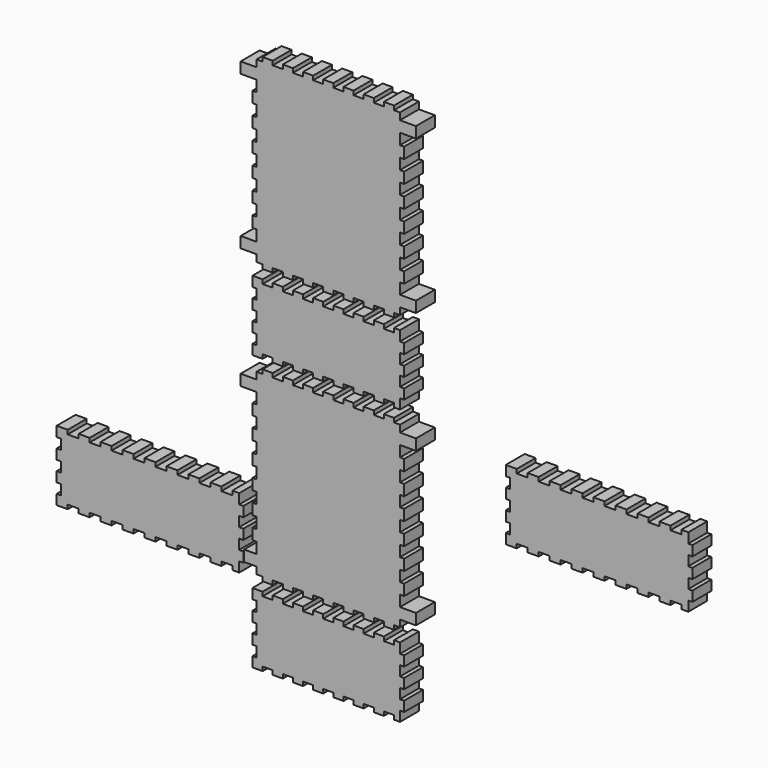
from build123d import *

# Parameters (mm, degrees)
F1_DEPTH = 25.4


with BuildPart() as f1:
    # F0 (on Front) → F1 (new body)
    with BuildSketch(Plane.XZ):
        Polygon((-81.365404, -279.444099), (-81.365404, -290.172863), (-70.515395, -290.172863), (-70.515395, -285.792528), (-59.667139, -285.792528), (-59.667139, -290.172863), (-48.818882, -290.172863), (-48.818882, -285.792528), (-37.971126, -285.792528), (-37.971126, -290.172863), (-27.12337, -290.172863), (-27.12337, -285.792528), (-16.273111, -285.792528), (-16.273111, -290.172863), (-5.422851, -290.172863), (-5.422851, -285.792528), (5.424904, -285.792528), (5.424904, -290.172863), (16.27266, -290.172863), (16.27266, -285.792528), (27.120416, -285.792528), (27.120416, -290.172863), (37.970675, -290.172863), (37.970675, -285.792528), (48.818431, -285.792528), (48.818431, -290.172863), (59.666187, -290.172863), (59.666187, -285.792528), (70.513943, -285.792528), (70.513943, -290.172863), (76.983041, -290.172863), (76.983041, -279.444099), (81.364202, -279.444099), (81.364202, -268.713884), (76.983041, -268.713884), (76.983041, -257.985045), (81.364202, -257.985045), (81.364202, -247.256457), (76.983041, -247.256457), (76.983041, -236.526116), (81.364202, -236.526116), (81.364202, -225.797528), (76.983041, -225.797528), (76.983041, -215.067187), (70.513943, -215.067187), (70.513943, -219.4491), (59.666187, -219.4491), (59.666187, -215.067187), (48.818431, -215.067187), (48.818431, -219.4491), (37.970675, -219.4491), (37.970675, -215.067187), (27.120416, -215.067187), (27.120416, -219.4491), (16.27266, -219.4491), (16.27266, -215.067187), (5.424904, -215.067187), (5.424904, -219.4491), (-5.422851, -219.4491), (-5.422851, -215.067187), (-16.273111, -215.067187), (-16.273111, -219.4491), (-27.12337, -219.4491), (-27.12337, -215.067187), (-37.971126, -215.067187), (-37.971126, -219.4491), (-48.818882, -219.4491), (-48.818882, -215.067187), (-59.667139, -215.067187), (-59.667139, -219.4491), (-70.515395, -219.4491), (-70.515395, -215.067187), (-81.365404, -215.067187), (-81.365404, -225.797528), (-76.983492, -225.797528), (-76.983492, -236.526116), (-81.365404, -236.526116), (-81.365404, -247.256457), (-76.983492, -247.256457), (-76.983492, -257.985045), (-81.365404, -257.985045), (-81.365404, -268.713884), (-76.983492, -268.713884), (-76.983492, -279.444099), align=None)
        Polygon((-291.502232, -194.481486), (-291.502232, -205.211827), (-279.720814, -205.211827), (-279.720814, -200.830165), (-267.940797, -200.830165), (-267.940797, -205.211827), (-256.159478, -205.211827), (-256.159478, -200.830165), (-244.377909, -200.830165), (-244.377909, -205.211827), (-232.59634, -205.211827), (-232.59634, -200.830165), (-220.81477, -200.830165), (-220.81477, -205.211827), (-209.033702, -205.211827), (-209.033702, -200.830165), (-197.252133, -200.830165), (-197.252133, -205.211827), (-185.470814, -205.211827), (-185.470814, -200.830165), (-173.689245, -200.830165), (-173.689245, -205.211827), (-161.909178, -205.211827), (-161.909178, -200.830165), (-150.127609, -200.830165), (-150.127609, -205.211827), (-138.34654, -205.211827), (-138.34654, -200.830165), (-126.564971, -200.830165), (-126.564971, -205.211827), (-114.783402, -205.211827), (-114.783402, -200.830165), (-103.001833, -200.830165), (-103.001833, -205.211827), (-95.602427, -205.211827), (-95.602427, -194.481486), (-91.220514, -194.481486), (-91.220514, -183.752898), (-95.602427, -183.752898), (-95.602427, -173.022557), (-91.220514, -173.022557), (-91.220514, -162.293969), (-95.602427, -162.293969), (-95.602427, -151.563879), (-91.220514, -151.563879), (-91.220514, -140.83504), (-95.602427, -140.83504), (-95.602427, -130.106201), (-103.001833, -130.106201), (-103.001833, -134.486361), (-114.783402, -134.486361), (-114.783402, -130.106201), (-126.564971, -130.106201), (-126.564971, -134.486361), (-138.34654, -134.486361), (-138.34654, -130.106201), (-150.127609, -130.106201), (-150.127609, -134.486361), (-161.909178, -134.486361), (-161.909178, -130.106201), (-173.689245, -130.106201), (-173.689245, -134.486361), (-185.470814, -134.486361), (-185.470814, -130.106201), (-197.252133, -130.106201), (-197.252133, -134.486361), (-209.033702, -134.486361), (-209.033702, -130.106201), (-220.81477, -130.106201), (-220.81477, -134.486361), (-232.59634, -134.486361), (-232.59634, -130.106201), (-244.377909, -130.106201), (-244.377909, -134.486361), (-256.159478, -134.486361), (-256.159478, -130.106201), (-267.940797, -130.106201), (-267.940797, -134.486361), (-279.720814, -134.486361), (-279.720814, -130.106201), (-291.502232, -130.106201), (-291.502232, -140.83504), (-287.121897, -140.83504), (-287.121897, -151.563879), (-291.502232, -151.563879), (-291.502232, -162.293969), (-287.121897, -162.293969), (-287.121897, -173.022557), (-291.502232, -173.022557), (-291.502232, -183.752898), (-287.121897, -183.752898), (-287.121897, -194.481486), align=None)
        Polygon((-76.983492, -193.430508), (-76.983492, -200.830165), (-70.515395, -200.830165), (-70.515395, -205.211827), (-59.667139, -205.211827), (-59.667139, -200.830165), (-48.818882, -200.830165), (-48.818882, -205.211827), (-37.971126, -205.211827), (-37.971126, -200.830165), (-27.12337, -200.830165), (-27.12337, -205.211827), (-16.273111, -205.211827), (-16.273111, -200.830165), (-5.422851, -200.830165), (-5.422851, -205.211827), (5.424904, -205.211827), (5.424904, -200.830165), (16.27266, -200.830165), (16.27266, -205.211827), (27.120416, -205.211827), (27.120416, -200.830165), (37.970675, -200.830165), (37.970675, -205.211827), (48.818431, -205.211827), (48.818431, -200.830165), (59.666187, -200.830165), (59.666187, -205.211827), (70.513943, -205.211827), (70.513943, -200.830165), (76.983041, -200.830165), (76.983041, -193.430508), (81.364947, -193.430508), (85.746109, -193.430508), (94.064202, -193.430508), (94.064202, -181.648939), (81.364202, -181.648939), (76.983041, -181.648939), (76.983041, -169.86737), (81.364202, -169.86737), (81.364202, -158.086051), (76.983041, -158.086051), (76.983041, -146.304732), (81.364202, -146.304732), (81.364202, -134.523414), (76.983041, -134.523414), (76.983041, -122.741844), (81.364202, -122.741844), (81.364202, -110.961777), (76.983041, -110.961777), (76.983041, -99.180208), (81.364202, -99.180208), (81.364202, -87.398639), (76.983041, -87.398639), (76.983041, -75.617571), (81.364202, -75.617571), (81.364202, -63.836001), (76.983041, -63.836001), (76.983041, -52.054432), (81.364202, -52.054432), (81.364202, -40.271862), (76.983041, -40.271862), (76.983041, -28.492796), (81.364202, -28.492796), (94.064202, -28.492796), (94.064202, -16.711227), (81.004872, -16.711227), (76.983041, -16.711227), (76.983041, -9.310819), (70.513943, -9.310819), (70.513943, -4.929658), (59.666187, -4.929658), (59.666187, -9.310819), (48.818431, -9.310819), (48.818431, -4.929658), (37.970675, -4.929658), (37.970675, -9.310819), (27.120416, -9.310819), (27.120416, -4.929658), (16.27266, -4.929658), (16.27266, -9.310819), (5.424904, -9.310819), (5.424904, -4.929658), (-5.422851, -4.929658), (-5.422851, -9.310819), (-16.273111, -9.310819), (-16.273111, -4.929658), (-27.12337, -4.929658), (-27.12337, -9.310819), (-37.971126, -9.310819), (-37.971126, -4.929658), (-48.818882, -4.929658), (-48.818882, -9.310819), (-59.667139, -9.310819), (-59.667139, -4.929658), (-70.515395, -4.929658), (-70.515395, -9.310819), (-76.983492, -9.310819), (-76.983492, -16.711227), (-81.365404, -16.711227), (-94.065404, -16.711227), (-94.065404, -28.492796), (-81.365404, -28.492796), (-76.983492, -28.492796), (-76.983492, -40.271862), (-81.365404, -40.271862), (-81.365404, -52.054432), (-76.983492, -52.054432), (-76.983492, -63.836001), (-81.365404, -63.836001), (-81.365404, -75.617571), (-76.983492, -75.617571), (-76.983492, -87.398639), (-81.365404, -87.398639), (-81.365404, -99.180208), (-76.983492, -99.180208), (-76.983492, -110.961777), (-81.365404, -110.961777), (-81.365404, -122.741844), (-76.983492, -122.741844), (-76.983492, -134.523414), (-81.365404, -134.523414), (-81.365404, -146.304732), (-76.983492, -146.304732), (-76.983492, -158.086051), (-81.365404, -158.086051), (-81.365404, -169.86737), (-76.983492, -169.86737), (-76.983492, -181.648939), (-81.365404, -181.648939), (-90.341263, -181.648939), (-90.341263, -193.430508), (-77.641263, -193.430508), align=None)
        Polygon((-81.365404, 15.656794), (-81.365404, 4.926704), (-70.515395, 4.926704), (-70.515395, 9.307865), (-59.667139, 9.307865), (-59.667139, 4.926704), (-48.818882, 4.926704), (-48.818882, 9.307865), (-37.971126, 9.307865), (-37.971126, 4.926704), (-27.12337, 4.926704), (-27.12337, 9.307865), (-16.273111, 9.307865), (-16.273111, 4.926704), (-5.422851, 4.926704), (-5.422851, 9.307865), (5.424904, 9.307865), (5.424904, 4.926704), (16.27266, 4.926704), (16.27266, 9.307865), (27.120416, 9.307865), (27.120416, 4.926704), (37.970675, 4.926704), (37.970675, 9.307865), (48.818431, 9.307865), (48.818431, 4.926704), (59.666187, 4.926704), (59.666187, 9.307865), (70.513943, 9.307865), (70.513943, 4.926704), (76.983041, 4.926704), (76.983041, 15.656794), (81.364202, 15.656794), (81.364202, 26.386884), (76.983041, 26.386884), (76.983041, 37.114471), (81.364202, 37.114471), (81.364202, 47.844562), (76.983041, 47.844562), (76.983041, 58.572149), (81.364202, 58.572149), (81.364202, 69.302239), (76.983041, 69.302239), (76.983041, 80.032329), (70.513943, 80.032329), (70.513943, 75.651168), (59.666187, 75.651168), (59.666187, 80.032329), (48.818431, 80.032329), (48.818431, 75.651168), (37.970675, 75.651168), (37.970675, 80.032329), (27.120416, 80.032329), (27.120416, 75.651168), (16.27266, 75.651168), (16.27266, 80.032329), (5.424904, 80.032329), (5.424904, 75.651168), (-5.422851, 75.651168), (-5.422851, 80.032329), (-16.273111, 80.032329), (-16.273111, 75.651168), (-27.12337, 75.651168), (-27.12337, 80.032329), (-37.971126, 80.032329), (-37.971126, 75.651168), (-48.818882, 75.651168), (-48.818882, 80.032329), (-59.667139, 80.032329), (-59.667139, 75.651168), (-70.515395, 75.651168), (-70.515395, 80.032329), (-81.365404, 80.032329), (-81.365404, 69.302239), (-76.983492, 69.302239), (-76.983492, 58.572149), (-81.365404, 58.572149), (-81.365404, 47.844562), (-76.983492, 47.844562), (-76.983492, 37.114471), (-81.365404, 37.114471), (-81.365404, 26.386884), (-76.983492, 26.386884), (-76.983492, 15.656794), align=None)
        Polygon((-76.983492, 101.67026), (-76.983492, 94.267349), (-70.515395, 94.267349), (-70.515395, 89.891195), (-59.667139, 89.891195), (-59.667139, 94.267349), (-48.818882, 94.267349), (-48.818882, 89.891195), (-37.971126, 89.891195), (-37.971126, 94.267349), (-27.12337, 94.267349), (-27.12337, 89.891195), (-16.273111, 89.891195), (-16.273111, 94.267349), (-5.422851, 94.267349), (-5.422851, 89.891195), (5.424904, 89.891195), (5.424904, 94.267349), (16.27266, 94.267349), (16.27266, 89.891195), (27.120416, 89.891195), (27.120416, 94.267349), (37.970675, 94.267349), (37.970675, 89.891195), (48.818431, 89.891195), (48.818431, 94.267349), (59.666187, 94.267349), (59.666187, 89.891195), (70.513943, 89.891195), (70.513943, 94.267349), (76.983041, 94.267349), (76.983041, 101.67026), (81.364202, 101.67026), (94.064202, 101.67026), (94.064202, 113.451829), (81.364202, 113.451829), (76.983041, 113.451829), (76.983041, 125.230895), (81.364202, 125.230895), (81.364202, 137.012464), (76.983041, 137.012464), (76.983041, 148.796537), (81.364202, 148.796537), (81.364202, 160.575602), (76.983041, 160.575602), (76.983041, 172.357171), (81.364202, 172.357171), (81.364202, 184.141244), (76.983041, 184.141244), (76.983041, 195.92031), (81.364202, 195.92031), (81.364202, 207.701879), (76.983041, 207.701879), (76.983041, 219.480945), (81.364202, 219.480945), (81.364202, 231.262514), (76.983041, 231.262514), (76.983041, 243.046586), (81.364202, 243.046586), (81.364202, 254.828155), (76.983041, 254.828155), (76.983041, 266.607221), (81.364202, 266.607221), (94.064202, 266.607221), (94.064202, 278.38879), (81.364202, 278.38879), (76.983041, 278.38879), (76.983041, 285.791701), (70.513943, 285.791701), (70.513943, 290.172863), (59.666187, 290.172863), (59.666187, 285.791701), (48.818431, 285.791701), (48.818431, 290.172863), (37.970675, 290.172863), (37.970675, 285.791701), (27.120416, 285.791701), (27.120416, 290.172863), (16.27266, 290.172863), (16.27266, 285.791701), (5.424904, 285.791701), (5.424904, 290.172863), (-5.422851, 290.172863), (-5.422851, 285.791701), (-16.273111, 285.791701), (-16.273111, 290.172863), (-27.12337, 290.172863), (-27.12337, 285.791701), (-37.971126, 285.791701), (-37.971126, 290.172863), (-48.818882, 290.172863), (-48.818882, 285.791701), (-59.667139, 285.791701), (-59.667139, 290.172863), (-70.515395, 290.172863), (-70.515395, 285.791701), (-76.983492, 285.791701), (-76.983492, 278.38879), (-81.364202, 278.38879), (-81.365404, 278.38879), (-94.064202, 278.38879), (-94.064202, 266.607221), (-81.365404, 266.607221), (-81.364202, 266.607221), (-76.983492, 266.607221), (-76.983492, 254.828155), (-81.365404, 254.828155), (-81.365404, 243.046586), (-76.983492, 243.046586), (-76.983492, 231.262514), (-81.365404, 231.262514), (-81.365404, 219.480945), (-76.983492, 219.480945), (-76.983492, 207.701879), (-81.365404, 207.701879), (-81.365404, 195.92031), (-76.983492, 195.92031), (-76.983492, 184.141244), (-81.365404, 184.141244), (-81.365404, 172.357171), (-76.983492, 172.357171), (-76.983492, 160.575602), (-81.365404, 160.575602), (-81.365404, 148.796537), (-76.983492, 148.796537), (-76.983492, 137.012464), (-81.365404, 137.012464), (-81.365404, 125.230895), (-76.983492, 125.230895), (-76.983492, 113.451829), (-81.364202, 113.451829), (-81.365404, 113.451829), (-94.064202, 113.451829), (-94.064202, 101.67026), (-81.365404, 101.67026), (-81.364202, 101.67026), align=None)
        Polygon((190.510345, -74.728762), (190.510345, -85.459103), (202.291914, -85.459103), (202.291914, -81.077441), (214.07098, -81.077441), (214.07098, -85.459103), (225.855052, -85.459103), (225.855052, -81.077441), (237.636622, -81.077441), (237.636622, -85.459103), (249.415687, -85.459103), (249.415687, -81.077441), (261.197256, -81.077441), (261.197256, -85.459103), (272.976322, -85.459103), (272.976322, -81.077441), (284.760395, -81.077441), (284.760395, -85.459103), (296.541964, -85.459103), (296.541964, -81.077441), (308.321029, -81.077441), (308.321029, -85.459103), (320.105102, -85.459103), (320.105102, -81.077441), (331.886671, -81.077441), (331.886671, -85.459103), (343.66824, -85.459103), (343.66824, -81.077441), (355.447306, -81.077441), (355.447306, -85.459103), (367.228875, -85.459103), (367.228875, -81.077441), (379.012948, -81.077441), (379.012948, -85.459103), (386.410852, -85.459103), (386.410852, -74.728762), (390.792013, -74.728762), (390.792013, -64.000174), (386.410852, -64.000174), (386.410852, -53.269833), (390.792013, -53.269833), (390.792013, -42.541245), (386.410852, -42.541245), (386.410852, -31.811155), (390.792013, -31.811155), (390.792013, -21.082316), (386.410852, -21.082316), (386.410852, -10.353478), (379.012948, -10.353478), (379.012948, -14.733638), (367.228875, -14.733638), (367.228875, -10.353478), (355.447306, -10.353478), (355.447306, -14.733638), (343.66824, -14.733638), (343.66824, -10.353478), (331.886671, -10.353478), (331.886671, -14.733638), (320.105102, -14.733638), (320.105102, -10.353478), (308.321029, -10.353478), (308.321029, -14.733638), (296.541964, -14.733638), (296.541964, -10.353478), (284.760395, -10.353478), (284.760395, -14.733638), (272.976322, -14.733638), (272.976322, -10.353478), (261.197256, -10.353478), (261.197256, -14.733638), (249.415687, -14.733638), (249.415687, -10.353478), (237.636622, -10.353478), (237.636622, -14.733638), (225.855052, -14.733638), (225.855052, -10.353478), (214.07098, -10.353478), (214.07098, -14.733638), (202.291914, -14.733638), (202.291914, -10.353478), (190.510345, -10.353478), (190.510345, -21.082316), (194.891506, -21.082316), (194.891506, -31.811155), (190.510345, -31.811155), (190.510345, -42.541245), (194.891506, -42.541245), (194.891506, -53.269833), (190.510345, -53.269833), (190.510345, -64.000174), (194.891506, -64.000174), (194.891506, -74.728762), align=None)
    extrude(amount=F1_DEPTH)


solid = f1.part
